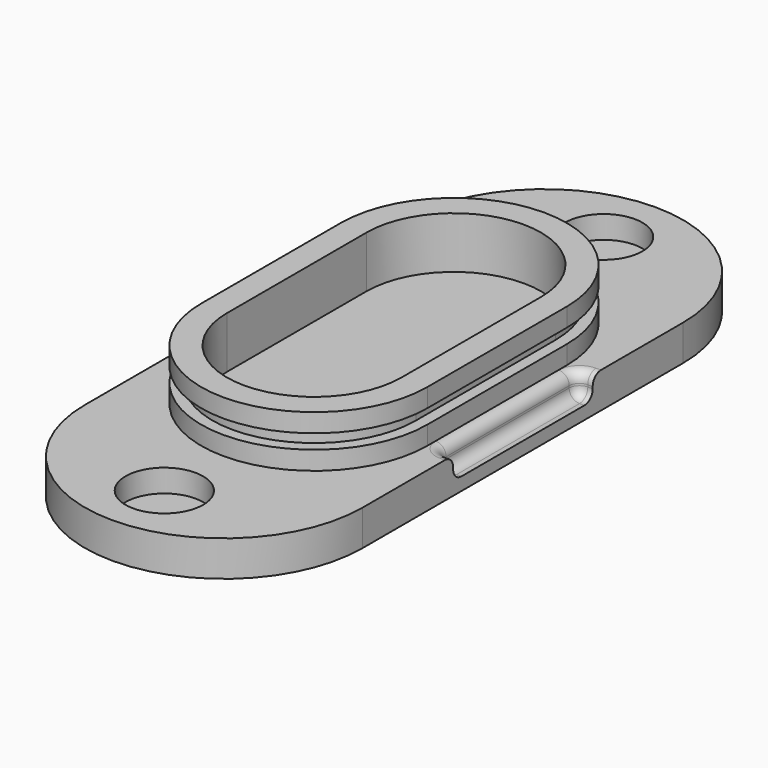
from build123d import *

# Parameters (mm, degrees)
F1_DEPTH  = 6.35
F0_R      = 4.7625
F2_DEPTH  = 2.794
F4_DEPTH  = 1.5875
F6_DEPTH  = 6.35
F8_W      = 1.87325
F8_H      = 21.43125
F9_DEPTH  = 2.794
F11_DEPTH = 0.889
F12_R     = 1.27
F13_R     = 1.27


with BuildPart() as f1:
    # F0 (on Top) → F1 (new body)
    with BuildSketch(Plane.XY):
        with BuildLine():
            ThreePointArc((13.890625, 10.715625), (0, 24.60625), (-13.890625, 10.715625))
            Line((-13.890625, 10.715625), (-13.890625, -10.715625))
            ThreePointArc((-13.890625, -10.715625), (0, -24.60625), (13.890625, -10.715625))
            Line((13.890625, -10.715625), (13.890625, 10.715625))
        make_face()
    extrude(amount=F1_DEPTH)

    # F0 (on Top) → F2 (join)
    with BuildSketch(Plane.XY):
        with BuildLine():
            ThreePointArc((17.065625, 24.60625), (0, 41.671875), (-17.065625, 24.60625))
            Line((-17.065625, 24.60625), (-17.065625, -24.60625))
            ThreePointArc((-17.065625, -24.60625), (0, -41.671875), (17.065625, -24.60625))
            Line((17.065625, -24.60625), (17.065625, 24.60625))
        make_face()
        with Locations((0, -33.734375)):
            Circle(F0_R, mode=Mode.SUBTRACT)
        with BuildLine():
            ThreePointArc((-14.684375, 10.715625), (0, 25.4), (14.684375, 10.715625))
            Line((14.684375, 10.715625), (14.684375, -10.715625))
            ThreePointArc((14.684375, -10.715625), (0, -25.4), (-14.684375, -10.715625))
            Line((-14.684375, -10.715625), (-14.684375, 10.715625))
        make_face(mode=Mode.SUBTRACT)
        with Locations((0, 33.734375)):
            Circle(F0_R, mode=Mode.SUBTRACT)
        with BuildLine():
            Line((14.684375, -10.715625), (14.684375, 10.715625))
            ThreePointArc((14.684375, 10.715625), (0, 25.4), (-14.684375, 10.715625))
            Line((-14.684375, 10.715625), (-14.684375, -10.715625))
            ThreePointArc((-14.684375, -10.715625), (0, -25.4), (14.684375, -10.715625))
        make_face()
        with BuildLine():
            Line((-13.890625, -10.715625), (-13.890625, 10.715625))
            ThreePointArc((-13.890625, 10.715625), (0, 24.60625), (13.890625, 10.715625))
            Line((13.890625, 10.715625), (13.890625, -10.715625))
            ThreePointArc((13.890625, -10.715625), (0, -24.60625), (-13.890625, -10.715625))
        make_face(mode=Mode.SUBTRACT)
        with BuildLine():
            ThreePointArc((13.890625, 10.715625), (0, 24.60625), (-13.890625, 10.715625))
            Line((-13.890625, 10.715625), (-13.890625, -10.715625))
            ThreePointArc((-13.890625, -10.715625), (0, -24.60625), (13.890625, -10.715625))
            Line((13.890625, -10.715625), (13.890625, 10.715625))
        make_face()
    extrude(amount=-F2_DEPTH)

    # F3 (on face) → F4 (join)
    with BuildSketch(Plane(origin=(0, 0, -2.794), x_dir=(1, 0, 0), z_dir=(0, 0, -1))):
        with BuildLine():
            ThreePointArc((17.065625, 24.60625), (0, 41.671875), (-17.065625, 24.60625))
            Line((-17.065625, 24.60625), (-17.065625, -24.60625))
            ThreePointArc((-17.065625, -24.60625), (0, -41.671875), (17.065625, -24.60625))
            Line((17.065625, -24.60625), (17.065625, 24.60625))
        make_face()
    extrude(amount=F4_DEPTH)

    # F5 (on face) → F6 (cut, through all)
    with BuildSketch(Plane.XY.offset(6.35)):
        with BuildLine():
            ThreePointArc((10.715625, 10.715625), (0, 21.43125), (-10.715625, 10.715625))
            Line((-10.715625, 10.715625), (-10.715625, -10.715625))
            ThreePointArc((-10.715625, -10.715625), (0, -21.43125), (10.715625, -10.715625))
            Line((10.715625, -10.715625), (10.715625, 10.715625))
        make_face()
    extrude(amount=-F6_DEPTH, mode=Mode.SUBTRACT)

    # F8 (on face) → F9 (cut, through all)
    with BuildSketch(Plane.XY):
        with Locations((16.129, 0)):
            Rectangle(F8_W, F8_H)
        with Locations((-16.129, 0)):
            Rectangle(F8_W, F8_H)
    extrude(amount=-F9_DEPTH, mode=Mode.SUBTRACT)

    # F10 (on mid) → F11 (cut, symmetric)
    with BuildSketch(Plane.XY.offset(3.175)):
        with BuildLine():
            Line((14.684375, -10.715625), (14.684375, 10.715625))
            ThreePointArc((14.684375, 10.715625), (0, 25.4), (-14.684375, 10.715625))
            Line((-14.684375, 10.715625), (-14.684375, -10.715625))
            ThreePointArc((-14.684375, -10.715625), (0, -25.4), (14.684375, -10.715625))
        make_face()
        with BuildLine():
            ThreePointArc((-12.5042083333, 10.715625), (0, 23.2198333333), (12.5042083333, 10.715625))
            Line((12.5042083333, 10.715625), (12.5042083333, -10.715625))
            ThreePointArc((12.5042083333, -10.715625), (0, -23.2198333333), (-12.5042083333, -10.715625))
            Line((-12.5042083333, -10.715625), (-12.5042083333, 10.715625))
        make_face(mode=Mode.SUBTRACT)
    extrude(amount=F11_DEPTH, both=True, mode=Mode.SUBTRACT)

    # F12
    f12_edges = [f1.edges().sort_by_distance(p)[0] for p in [
        (15.192375, -10.715625, -1.397),
        (15.192375, 10.715625, -1.397),
        (-15.192375, 10.715625, -1.397),
        (-15.192375, -10.715625, -1.397),
    ]]
    fillet(f12_edges, radius=F12_R)

    # F13
    f13_edges = [f1.edges().sort_by_distance(p)[0] for p in [
        (16.764, -10.715625, 0),
        (16.764, 10.715625, 0),
        (16.764, -10.715625, -2.794),
        (16.764, 10.715625, -2.794),
        (-16.764, -10.715625, 0),
        (-16.764, -10.715625, -2.794),
        (-16.764, 10.715625, 0),
        (-16.764, 10.715625, -2.794),
    ]]
    fillet(f13_edges, radius=F13_R)


solid = f1.part
